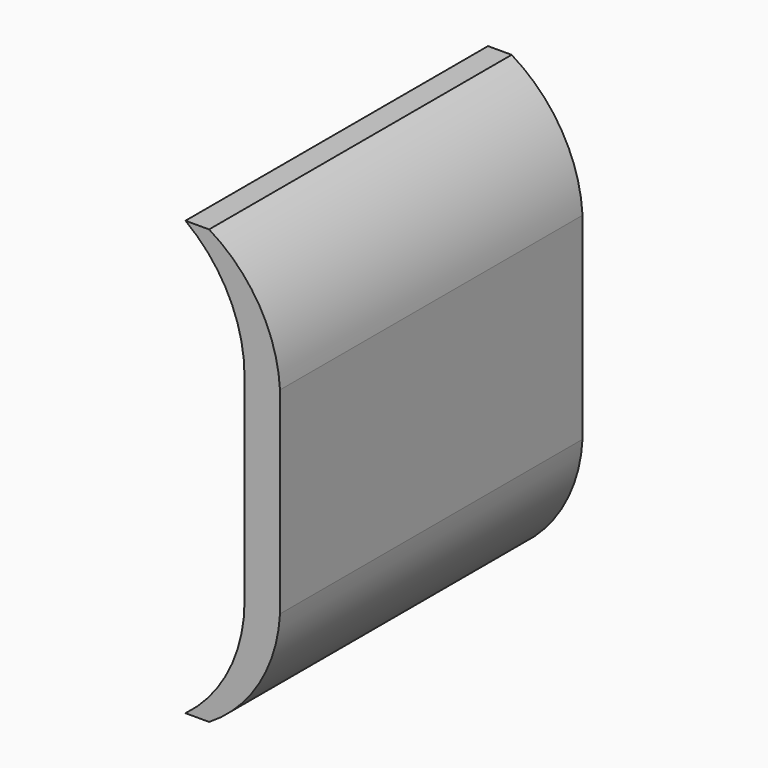
from build123d import *

# Parameters (mm, degrees)
F0_W          = 1.5
F0_H          = 4.1721797287
F1_DEPTH      = 8
F1_DEPTH_BACK = 8


with BuildPart() as f1:
    # F0 (on Front) → F1 (new body, two sides)
    with BuildSketch(Plane.XZ) as f1_sk:
        with BuildLine():
            ThreePointArc((-18.4, 39), (-16.2811783083, 41.128706985), (-15.4, 44))
            Line((-15.4, 44), (-16.9, 44))
            ThreePointArc((-16.9, 44), (-17.5598300563, 41.2049150281), (-19.4, 39))
            Line((-19.4, 39), (-18.4, 39))
        make_face()
        with Locations((-16.15, 46.0860898644)):
            Rectangle(F0_W, F0_H)
        with Locations((-16.15, 50.2582695931)):
            Rectangle(F0_W, F0_H)
        with BuildLine():
            Line((-16.9, 52.3443594575), (-15.4, 52.3443594575))
            ThreePointArc((-15.4, 52.3443594575), (-16.2811783083, 55.2156524725), (-18.4, 57.3443594575))
            Line((-18.4, 57.3443594575), (-19.4, 57.3443594575))
            ThreePointArc((-19.4, 57.3443594575), (-17.5598300563, 55.1394444294), (-16.9, 52.3443594575))
        make_face()
    extrude(amount=F1_DEPTH)
    extrude(f1_sk.sketch, amount=-F1_DEPTH_BACK)


solid = f1.part
